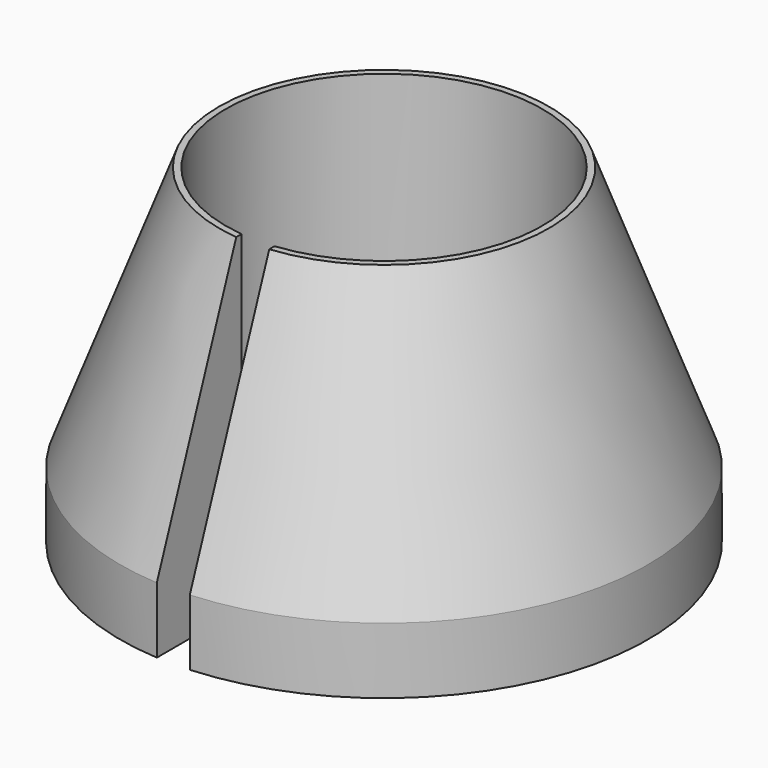
from build123d import *

# Parameters (mm, degrees)
F2_W     = 0.5
F2_H     = 5
F3_DEPTH = 25


with BuildPart() as f1:
    # F0 (on Front) → F1 (revolve)
    with BuildSketch(Plane.XZ):
        Polygon((-2.4, 0), (-2.4, 5), (-2.5, 5), (-4, 1), (-4, 0), align=None)
    revolve(axis=Axis((0, 0, -14.823614), (0, 0, 1)))

    # F2 (on face) → F3 (cut)
    with BuildSketch(Plane(origin=(0, 0, 0), x_dir=(1, 0, 0), z_dir=(0, 0, -1))):
        with Locations((0, 3.092957)):
            Rectangle(F2_W, F2_H)
    extrude(amount=-F3_DEPTH, mode=Mode.SUBTRACT)


solid = f1.part
